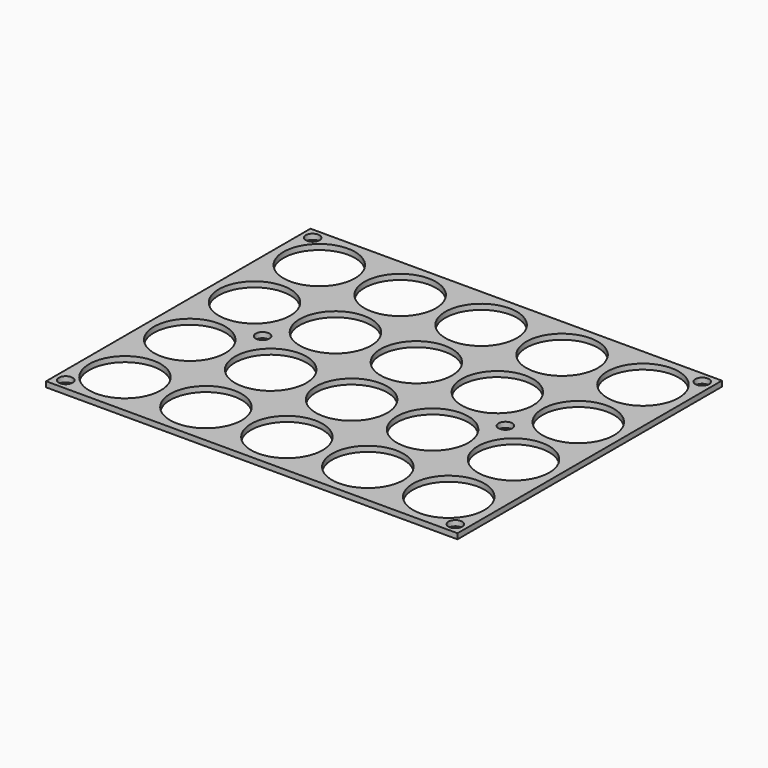
from build123d import *

# Parameters (mm, degrees)
F0_W     = 152.5
F0_H     = 122.5
F0_R     = 2.55
F0_R_2   = 13.25
F1_DEPTH = 2


with BuildPart() as f1:
    # F0 (on Top) → F1 (new body)
    with BuildSketch(Plane.XY):
        Rectangle(F0_W, F0_H)
        with Locations((-72.2, -57.2)):
            Circle(F0_R, mode=Mode.SUBTRACT)
        with Locations((-60, -45)):
            Circle(F0_R_2, mode=Mode.SUBTRACT)
        with Locations((-30, -45)):
            Circle(F0_R_2, mode=Mode.SUBTRACT)
        with Locations((-60, -15)):
            Circle(F0_R_2, mode=Mode.SUBTRACT)
        with Locations((-30, -15)):
            Circle(F0_R_2, mode=Mode.SUBTRACT)
        with Locations((0, -45)):
            Circle(F0_R_2, mode=Mode.SUBTRACT)
        with Locations((30, -45)):
            Circle(F0_R_2, mode=Mode.SUBTRACT)
        with Locations((72.2, -57.2)):
            Circle(F0_R, mode=Mode.SUBTRACT)
        with Locations((60, -45)):
            Circle(F0_R_2, mode=Mode.SUBTRACT)
        with Locations((0, -15)):
            Circle(F0_R_2, mode=Mode.SUBTRACT)
        with Locations((30, -15)):
            Circle(F0_R_2, mode=Mode.SUBTRACT)
        with Locations((60, -15)):
            Circle(F0_R_2, mode=Mode.SUBTRACT)
        with Locations((-60, 15)):
            Circle(F0_R_2, mode=Mode.SUBTRACT)
        with Locations((-45, 0)):
            Circle(F0_R, mode=Mode.SUBTRACT)
        with Locations((-30, 15)):
            Circle(F0_R_2, mode=Mode.SUBTRACT)
        with Locations((-60, 45)):
            Circle(F0_R_2, mode=Mode.SUBTRACT)
        with Locations((-72.2, 57.2)):
            Circle(F0_R, mode=Mode.SUBTRACT)
        with Locations((-30, 45)):
            Circle(F0_R_2, mode=Mode.SUBTRACT)
        with Locations((0, 15)):
            Circle(F0_R_2, mode=Mode.SUBTRACT)
        with Locations((30, 15)):
            Circle(F0_R_2, mode=Mode.SUBTRACT)
        with Locations((45, 0)):
            Circle(F0_R, mode=Mode.SUBTRACT)
        with Locations((60, 15)):
            Circle(F0_R_2, mode=Mode.SUBTRACT)
        with Locations((0, 45)):
            Circle(F0_R_2, mode=Mode.SUBTRACT)
        with Locations((30, 45)):
            Circle(F0_R_2, mode=Mode.SUBTRACT)
        with Locations((60, 45)):
            Circle(F0_R_2, mode=Mode.SUBTRACT)
        with Locations((72.2, 57.2)):
            Circle(F0_R, mode=Mode.SUBTRACT)
    extrude(amount=F1_DEPTH)


solid = f1.part
